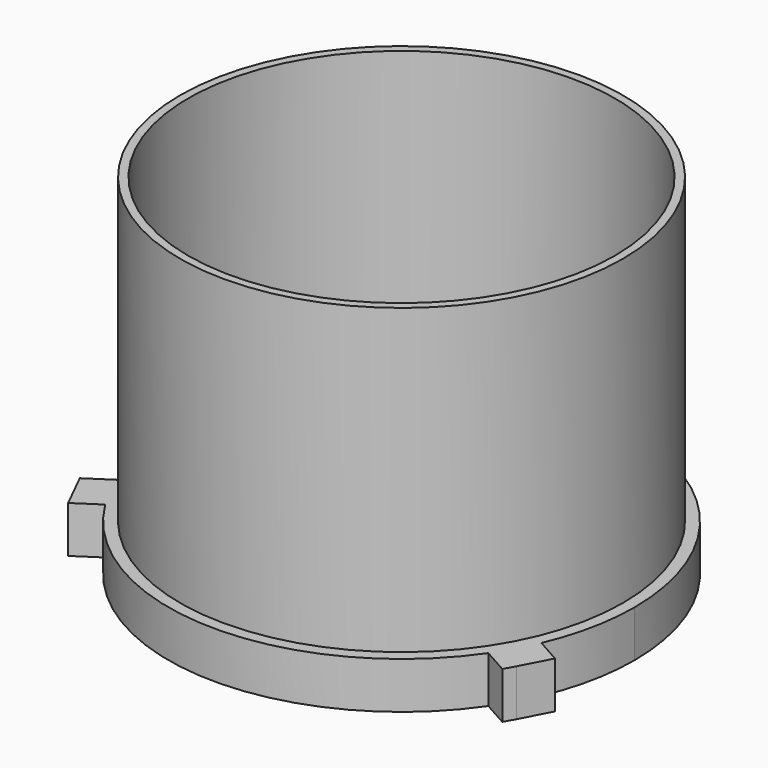
from build123d import *

# Parameters (mm, degrees)
F0_R     = 47.5
F1_DEPTH = 10
F0_R_2   = 45.75
F2_DEPTH = 75
F3_SIZE2 = 10
F3_SIZE  = 1


with BuildPart() as f1:
    # F0 (on Top) → F1 (new body)
    with BuildSketch(Plane.XY):
        with BuildLine():
            ThreePointArc((45.8863008564, -19.8606997288), (48.9607753351, -10.1411280729), (50, 0))
            ThreePointArc((50, 0), (37.0809924355, 33.5410196625), (5, 49.7493718553))
            Line((5, 49.7493718553), (-5, 49.7493718553))
            ThreePointArc((-5, 49.7493718553), (-42.6116749939, 26.1580800942), (-46.6251156353, -18.0582001317))
            Line((-46.6251156353, -18.0582001317), (-42.5287393866, -26.2927048092))
            ThreePointArc((-42.5287393866, -26.2927048092), (-1.1819158777, -49.9860287966), (41.2385285358, -28.2733755361))
            Line((41.2385285358, -28.2733755361), (42.5287393866, -26.2927048092))
            Line((42.5287393866, -26.2927048092), (45.8863008564, -19.8606997288))
        make_face()
        Circle(F0_R, mode=Mode.SUBTRACT)
        with BuildLine():
            Line((-5, 49.7493718553), (5, 49.7493718553))
            ThreePointArc((5, 49.7493718553), (0, 50), (-5, 49.7493718553))
        make_face()
        with BuildLine():
            ThreePointArc((-5, 49.7493718553), (0, 50), (5, 49.7493718553))
            Line((5, 49.7493718553), (5, 56.2493718553))
            Line((5, 56.2493718553), (-5, 56.2493718553))
            Line((-5, 56.2493718553), (-5, 49.7493718553))
        make_face()
        with BuildLine():
            Line((51.1834725437, -22.8304454416), (45.8863008564, -19.8606997288))
            ThreePointArc((45.8863008564, -19.8606997288), (44.3243444129, -23.1376855447), (42.5287393866, -26.2927048092))
            ThreePointArc((42.5287393866, -26.2927048092), (41.8953405276, -27.2906658415), (41.2385285358, -28.2733755361))
            Line((41.2385285358, -28.2733755361), (46.6677711457, -31.3171639795))
            Line((46.6677711457, -31.3171639795), (47.9098336715, -29.1016818872))
            Line((47.9098336715, -29.1016818872), (51.1834725437, -22.8304454416))
        make_face()
        with BuildLine():
            ThreePointArc((42.5287393866, -26.2927048092), (44.3243444129, -23.1376855447), (45.8863008564, -19.8606997288))
            Line((45.8863008564, -19.8606997288), (42.5287393866, -26.2927048092))
        make_face()
        with BuildLine():
            ThreePointArc((41.2385285358, -28.2733755361), (41.8953405276, -27.2906658415), (42.5287393866, -26.2927048092))
            Line((42.5287393866, -26.2927048092), (41.2385285358, -28.2733755361))
        make_face()
        with BuildLine():
            Line((-42.5287393866, -26.2927048092), (-46.6251156353, -18.0582001317))
            ThreePointArc((-46.6251156353, -18.0582001317), (-44.7666643066, -22.2698398482), (-42.5287393866, -26.2927048092))
        make_face()
        with BuildLine():
            ThreePointArc((-42.5287393866, -26.2927048092), (-44.7666643066, -22.2698398482), (-46.6251156353, -18.0582001317))
            Line((-46.6251156353, -18.0582001317), (-51.8348084182, -21.4918854745))
            Line((-51.8348084182, -21.4918854745), (-47.7384321695, -29.726390152))
            Line((-47.7384321695, -29.726390152), (-42.5287393866, -26.2927048092))
        make_face()
    extrude(amount=F1_DEPTH)

    # F0 (on Top) → F2 (join)
    with BuildSketch(Plane.XY):
        Circle(F0_R)
        Circle(F0_R_2, mode=Mode.SUBTRACT)
    extrude(amount=F2_DEPTH)

    # F3
    f3_edges = [f1.edges().sort_by_distance(p)[0] for p in [
        (-45.75, 0, 0),
    ]]
    f3_side = f1.faces().sort_by_distance((44.676862, -28.504375, 0))[0]
    chamfer(f3_edges, length=F3_SIZE, length2=F3_SIZE2, reference=f3_side)


solid = f1.part
